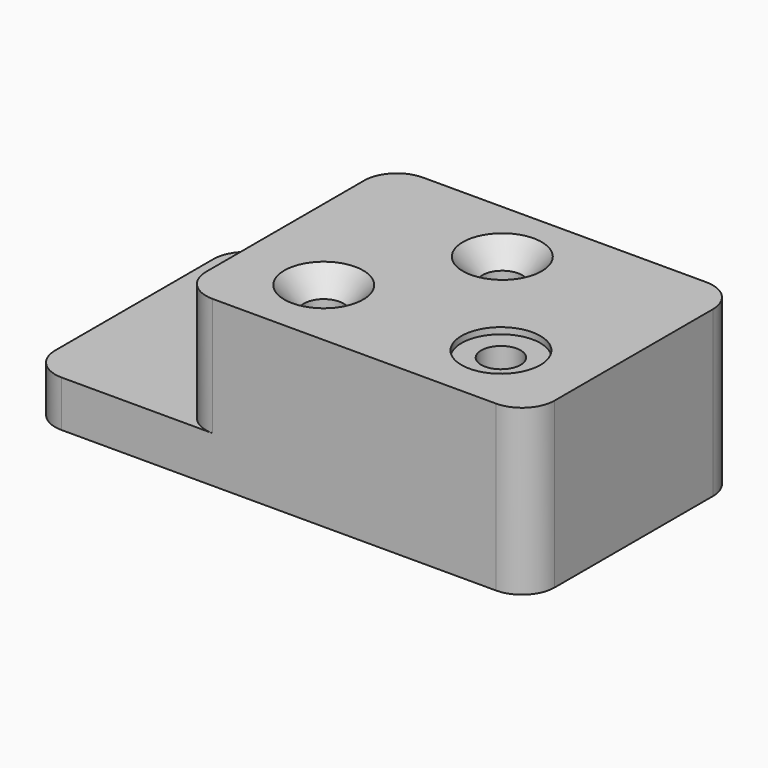
from build123d import *

# Parameters (mm, degrees)
F1_DEPTH       = 127
F2_R           = 15.748
F4_D           = 19.05
F4_CSINK_D     = 38.1
F4_CSINK_ANGLE = 82
F5_D           = 19.05
F5_START       = 57.15
F5_CBORE_D     = 38.1
F5_CBORE_DEPTH = 3.048


with BuildPart() as f1:
    # F0 (on Front) → F1 (new body)
    with BuildSketch(Plane.XZ):
        Polygon((0, 22.352), (0, 0), (241.3, 0), (241.3, 79.502), (72.898, 79.502), (72.898, 22.352), align=None)
    extrude(amount=F1_DEPTH)

    # F2
    f2_edges = [f1.edges().sort_by_distance(p)[0] for p in [
        (72.898, -127, 50.927),
        (72.898, 0, 50.927),
        (0, 0, 11.176),
        (0, -127, 11.176),
        (241.3, -127, 39.751),
        (241.3, 0, 39.751),
    ]]
    fillet(f2_edges, radius=F2_R)

    # F4 (through all)
    with Locations(Plane.XY.offset(79.502)):
        with Locations((114.3, -91.948), (152.4, -31.75)):
            CounterSinkHole(F4_D / 2, F4_CSINK_D / 2, counter_sink_angle=F4_CSINK_ANGLE)

    # F5 (through all)
    # its depths count from where the whole tool has entered the part; down to there all is cleared
    with Locations(Plane.XY.offset(79.502)):
        with Locations((35.052, -31.75, -F5_START), (199.898, -91.948, 0)):
            CounterBoreHole(F5_D / 2, F5_CBORE_D / 2, F5_CBORE_DEPTH)


solid = f1.part
